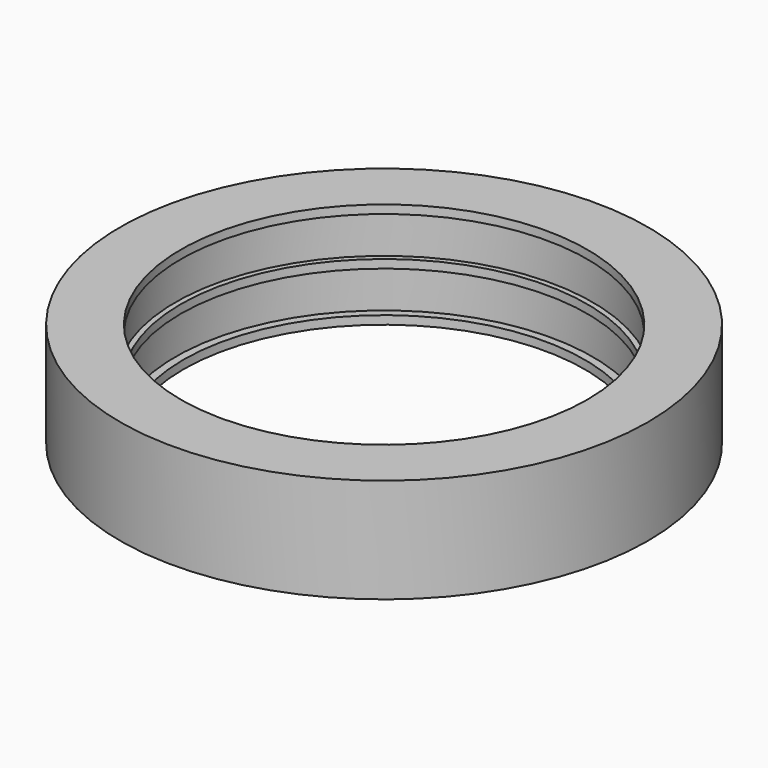
from build123d import *

# Parameters (mm, degrees)
F0_R      = 12.5
F0_R_2    = 9.875
F1_DEPTH  = 4.95
F3_R      = 9.875
F3_R_2    = 9.625
F4_DEPTH  = 0.2
F6_R      = 9.875
F6_R_2    = 9.5
F7_DEPTH  = 0.4
F10_DEPTH = 0.4


with BuildPart() as f1:
    # F0 (on Top) → F1 (new body)
    with BuildSketch(Plane.XY):
        Circle(F0_R)
        Circle(F0_R_2, mode=Mode.SUBTRACT)
    extrude(amount=F1_DEPTH)

    # F3 (on offset) → F4 (join, symmetric)
    with BuildSketch(Plane.XY.offset(2.475)):
        Circle(F3_R)
        Circle(F3_R_2, mode=Mode.SUBTRACT)
    extrude(amount=F4_DEPTH, both=True)

    # F6 (on offset) → F7 (join)
    with BuildSketch(Plane(origin=(0, 0, 0), x_dir=(1, 0, 0), z_dir=(0, 0, -1))):
        Circle(F6_R)
        Circle(F6_R_2, mode=Mode.SUBTRACT)
    extrude(amount=-F7_DEPTH)

    # F9 (on offset) → F10 (join)
    with BuildSketch(Plane.XY.offset(4.95)):
        with BuildLine():
            ThreePointArc((0.125, -9.6241882775), (0, -9.625), (-0.125, -9.6241882775))
            Line((-0.125, -9.6241882775), (-0.125, -9.8742088291))
            ThreePointArc((-0.125, -9.8742088291), (0, -9.875), (0.125, -9.8742088291))
            Line((0.125, -9.8742088291), (0.125, -9.6241882775))
        make_face()
        with BuildLine():
            ThreePointArc((-0.125, -9.6241882775), (-6.7615641681, 6.8499543794), (9.625, 0))
            ThreePointArc((9.625, 0), (6.8499543794, -6.7615641681), (0.125, -9.6241882775))
            Line((0.125, -9.6241882775), (0.125, -9.8742088291))
            ThreePointArc((0.125, -9.8742088291), (7.0267346613, -6.9383445432), (9.875, 0))
            ThreePointArc((9.875, 0), (-6.9383445432, 7.0267346613), (-0.125, -9.8742088291))
            Line((-0.125, -9.8742088291), (-0.125, -9.6241882775))
        make_face()
    extrude(amount=-F10_DEPTH)


solid = f1.part
